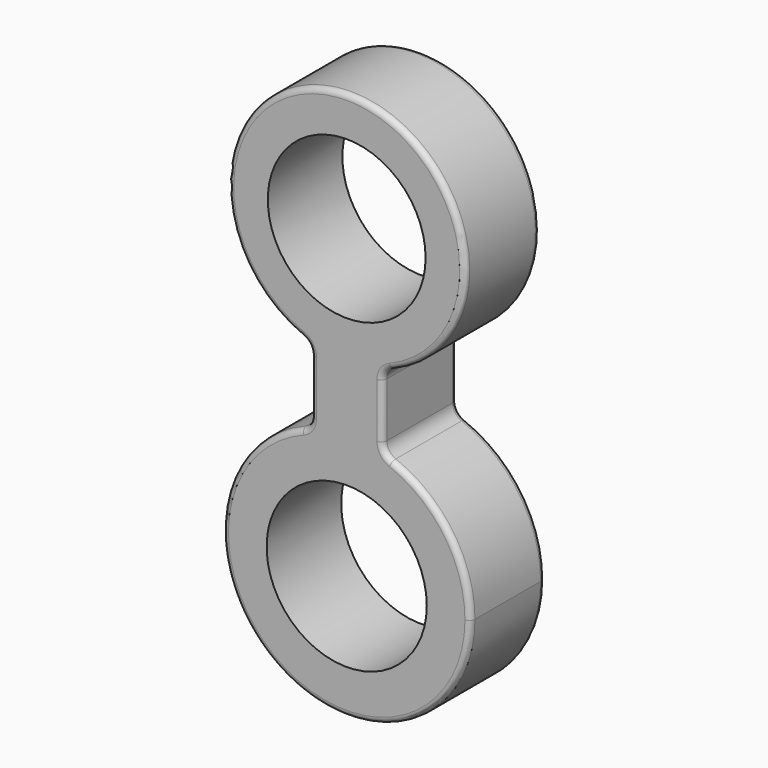
from build123d import *

# Parameters (mm, degrees)
F2_R     = 21.8203360692
F3_DEPTH = 25.4
F4_R     = 32.3243741503
F4_R_2   = 21.5014025506
F5_DEPTH = 25.399999693
F6_R     = 3.81
F8_R     = 1.524


with BuildPart() as f3:
    # F2 (on face) → F3 (new body)
    with BuildSketch(Plane.XZ):
        with BuildLine():
            ThreePointArc((33.7495873612, -42.148321867), (27.0928879745, -22.0234599232), (9.7486972809, -9.8373709621))
            Line((9.7486972809, -9.8373709621), (9.7486972809, -16.04783535))
            Line((9.7486972809, -16.04783535), (-9.7486972809, -16.04783535))
            Line((-9.7486972809, -16.04783535), (-9.7486972809, -9.8373709621))
            ThreePointArc((-9.7486972809, -9.8373709621), (-20.1248619438, -69.2412098414), (33.7495873612, -42.148321867))
        make_face()
        with Locations((0, -42.148321867)):
            Circle(F2_R, mode=Mode.SUBTRACT)
        with BuildLine():
            Line((9.7486972809, -9.8373709621), (9.7486972809, 16.04783535))
            Line((9.7486972809, 16.04783535), (-9.7486972809, 16.04783535))
            Line((-9.7486972809, 16.04783535), (-9.7486972809, -9.8373709621))
            ThreePointArc((-9.7486972809, -9.8373709621), (0, -8.3987345058), (9.7486972809, -9.8373709621))
        make_face()
        with BuildLine():
            Line((9.7486972809, -16.04783535), (9.7486972809, -9.8373709621))
            ThreePointArc((9.7486972809, -9.8373709621), (0, -8.3987345058), (-9.7486972809, -9.8373709621))
            Line((-9.7486972809, -9.8373709621), (-9.7486972809, -16.04783535))
            Line((-9.7486972809, -16.04783535), (9.7486972809, -16.04783535))
        make_face()
    extrude(amount=-F3_DEPTH)

    # F4 (on Front) → F5 (join)
    with BuildSketch(Plane.XZ):
        with Locations((0, 41.2176400423)):
            Circle(F4_R)
        with Locations((0, 41.2176400423)):
            Circle(F4_R_2, mode=Mode.SUBTRACT)
    extrude(amount=-F5_DEPTH)

    # F6
    f6_edges = [f3.edges().sort_by_distance(p)[0] for p in [
        (-9.748697, 12.7, -9.837371),
        (-9.748697, 12.7, 10.398359),
        (9.748697, 12.7, 10.398359),
        (9.748697, 12.7, -9.837371),
    ]]
    fillet(f6_edges, radius=F6_R)

    # F8
    f8_edges = [f3.edges().sort_by_distance(p)[0] for p in [
        (0, 0, -75.897909),
        (-12.183319, 12.7, -10.674501),
        (12.183319, 12.7, -10.674501),
        (0, 25.4, -75.897909),
        (10.415746, 0, -9.275004),
        (9.748697, 12.7, -7.121413),
        (10.415746, 25.4, -9.275004),
        (-10.415746, 0, -9.275004),
        (-9.748697, 12.7, -7.121413),
        (-10.415746, 25.4, -9.275004),
        (10.399348, 25.4, 9.853003),
        (12.129071, 12.7, 11.25515),
        (9.748697, 12.7, 7.72354),
        (10.399348, 0, 9.853003),
        (0, 0, 73.542014),
        (-12.129071, 12.7, 11.25515),
        (0, 25.4, 73.542014),
        (-10.399348, 25.4, 9.853003),
        (-9.748697, 12.7, 7.72354),
        (-10.399348, 0, 9.853003),
    ]]
    fillet(f8_edges, radius=F8_R)


solid = f3.part
